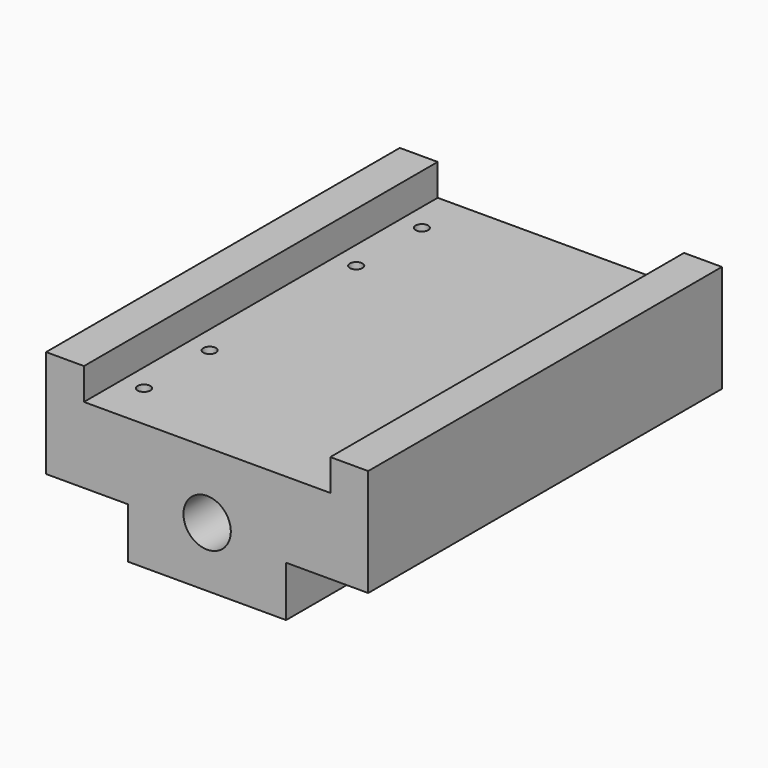
from build123d import *

# Parameters (mm, degrees)
F0_R     = 7.5
F1_DEPTH = 70
F2_R     = 2
F3_DEPTH = 40.001


with BuildPart() as f1:
    # F0 (on Front) → F1 (new body, symmetric)
    with BuildSketch(Plane.XZ):
        Polygon((25, -17), (51, -17), (51, 17), (39, 17), (39, 7), (-39, 7), (-39, 17), (-51, 17), (-51, -17), (-25, -17), (-25, -33), (25, -33), align=None)
        with Locations((0, -14)):
            Circle(F0_R, mode=Mode.SUBTRACT)
    extrude(amount=F1_DEPTH, both=True)

    # F2 (on face) → F3 (cut, through all)
    with BuildSketch(Plane.XY.offset(7)):
        with Locations((-32, 55)):
            Circle(F2_R)
        with Locations((-32, 29)):
            Circle(F2_R)
        with Locations((32, 55)):
            Circle(F2_R)
        with Locations((32, 29)):
            Circle(F2_R)
        with Locations((-32, -55)):
            Circle(F2_R)
        with Locations((32, -29)):
            Circle(F2_R)
        with Locations((-32, -29)):
            Circle(F2_R)
        with Locations((32, -55)):
            Circle(F2_R)
    extrude(amount=-F3_DEPTH, mode=Mode.SUBTRACT)


solid = f1.part
